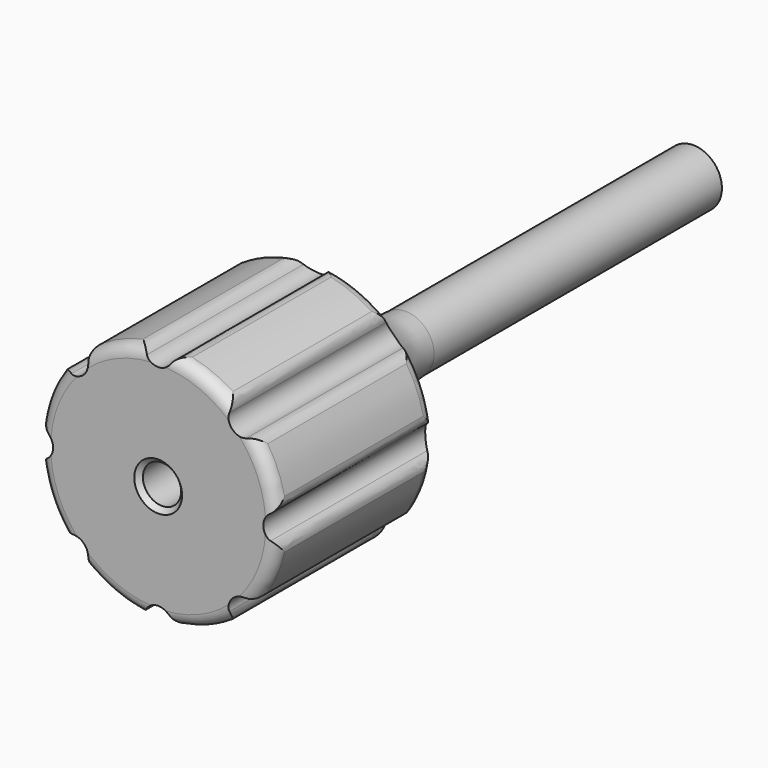
from build123d import *

# Parameters (mm, degrees)
SKETCH001_R        = 1.5
POCKET_DEPTH       = 226.844871
POLARPATTERN_COUNT = 8
FILLET_R           = 1.25
FILLET001_R        = 10
CHAMFER001_SIZE    = 0.5
SKETCH002_R        = 1.5
POCKET001_DEPTH    = 12
CHAMFER002_SIZE    = 0.25


with BuildPart() as part:
    # Sketch → Revolution (revolve)
    with BuildSketch(Plane.XY):
        Polygon((2, 0), (2, 6), (0, 6), (0, 70), (3, 70), (3, 27.5), (12.5, 20), (12.5, 0), align=None)
    revolve(axis=Axis((0, 0, 0), (0, 1, 0)))

    # Sketch001 (on Face7 of Revolution) → Pocket (cut, through all)
    with BuildSketch(Plane.XZ):
        with Locations((0, 12.5)):
            Circle(SKETCH001_R)
    pocket = extrude(amount=-POCKET_DEPTH, mode=Mode.SUBTRACT)

    # PolarPattern: Pocket ×8 about axis
    polarpattern_axis = Axis((0, 0, 0), (0, -1, 0))
    for i in range(1, POLARPATTERN_COUNT):
        add(pocket.rotate(polarpattern_axis, i * 360 / POLARPATTERN_COUNT), mode=Mode.SUBTRACT)

    # Fillet
    fillet_edges = [part.edges().sort_by_distance(p)[0] for p in [
        (-12.41, 10, -1.497298),
        (-11.548494, 0, -4.783543),
        (-9.833944, 10, -7.716446),
        (-11.548494, 20, -4.783543),
        (-7.716446, 10, -9.833944),
        (-4.783543, 0, -11.548494),
        (-1.497298, 10, -12.41),
        (-4.783543, 20, -11.548494),
        (1.497298, 10, -12.41),
        (4.783543, 0, -11.548494),
        (7.716446, 10, -9.833944),
        (4.783543, 20, -11.548494),
        (9.833944, 10, -7.716446),
        (11.548494, 0, -4.783543),
        (12.41, 10, -1.497298),
        (11.548494, 20, -4.783543),
        (12.41, 10, 1.497298),
        (11.548494, 0, 4.783543),
        (9.833944, 10, 7.716446),
        (11.548494, 20, 4.783543),
        (7.716446, 10, 9.833944),
        (4.783543, 0, 11.548494),
        (1.497298, 10, 12.41),
        (4.783543, 20, 11.548494),
        (-1.497298, 10, 12.41),
        (-4.783543, 0, 11.548494),
        (-7.716446, 10, 9.833944),
        (-4.783543, 20, 11.548494),
        (-9.833944, 10, 7.716446),
        (-11.548494, 0, 4.783543),
        (-12.41, 10, 1.497298),
        (-11.548494, 20, 4.783543),
    ]]
    fillet(fillet_edges, radius=FILLET_R)

    # Fillet001
    fillet001_edges = [part.edges().sort_by_distance(p)[0] for p in [
        (-3, 27.5, 0),
    ]]
    fillet(fillet001_edges, radius=FILLET001_R)

    # Chamfer001
    chamfer001_edges = [part.edges().sort_by_distance(p)[0] for p in [
        (-2, 0, 0),
    ]]
    chamfer(chamfer001_edges, length=CHAMFER001_SIZE)

    # Sketch002 (on Face45 of Chamfer001) → Pocket001 (cut)
    with BuildSketch(Plane.XZ.offset(-6)):
        Circle(SKETCH002_R)
    extrude(amount=-POCKET001_DEPTH, mode=Mode.SUBTRACT)

    # Chamfer002
    chamfer002_edges = [part.edges().sort_by_distance(p)[0] for p in [
        (-1.5, 6, 0),
    ]]
    chamfer(chamfer002_edges, length=CHAMFER002_SIZE)


solid = part.part
